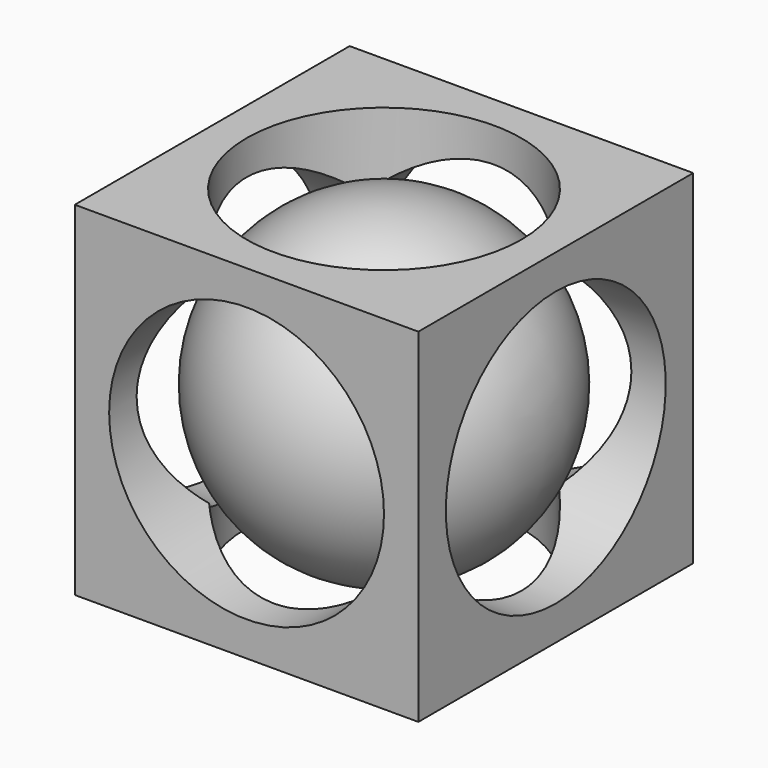
from build123d import *

# Parameters (mm, degrees)
CYLINDER001_R     = 12
CYLINDER001_DEPTH = 35
CYLINDER002_R     = 12
CYLINDER002_DEPTH = 35
CYLINDER_R        = 12
CYLINDER_DEPTH    = 35
BOX_W             = 30
BOX_H             = 30
BOX_DEPTH         = 30


with BuildPart() as esfera001:
    # Sphere001 → Sphere001 (revolve)
    with BuildSketch(Plane(origin=(15, 15, 15), x_dir=(1, 0, 0), z_dir=(0, -1, 0))):
        with BuildLine():
            ThreePointArc((0, -14), (14, 0), (0, 14))
            Line((0, 14), (0, -14))
        make_face()
    revolve(axis=Axis((15, 15, 15), (0, 0, 1)))


with BuildPart() as cilindre001:
    # Cylinder001 → Cylinder001 (new body)
    with BuildSketch(Plane(origin=(-3, 15, 15), x_dir=(0, 0, -1), z_dir=(1, 0, 0))):
        Circle(CYLINDER001_R)
    extrude(amount=CYLINDER001_DEPTH)


with BuildPart() as cilindre002:
    # Cylinder002 → Cylinder002 (new body)
    with BuildSketch(Plane(origin=(15, -3, 15), x_dir=(1, 0, 0), z_dir=(0, 1, 0))):
        Circle(CYLINDER002_R)
    extrude(amount=CYLINDER002_DEPTH)


with BuildPart() as cilindre:
    # Cylinder → Cylinder (new body)
    with BuildSketch(Plane(origin=(15, 15, -1), x_dir=(1, 0, 0), z_dir=(0, 0, 1))):
        Circle(CYLINDER_R)
    extrude(amount=CYLINDER_DEPTH)


with BuildPart() as cut002:
    # Box → Box (new body)
    with BuildSketch(Plane.XY):
        with Locations((15, 15)):
            Rectangle(BOX_W, BOX_H)
    extrude(amount=BOX_DEPTH)

    # Cut: cut Cilindre
    add(cilindre.part, mode=Mode.SUBTRACT)

    # Cut001: cut Cilindre002
    add(cilindre002.part, mode=Mode.SUBTRACT)

    # Cut002: cut Cilindre001
    add(cilindre001.part, mode=Mode.SUBTRACT)


solid = Compound([esfera001.part, cut002.part])
